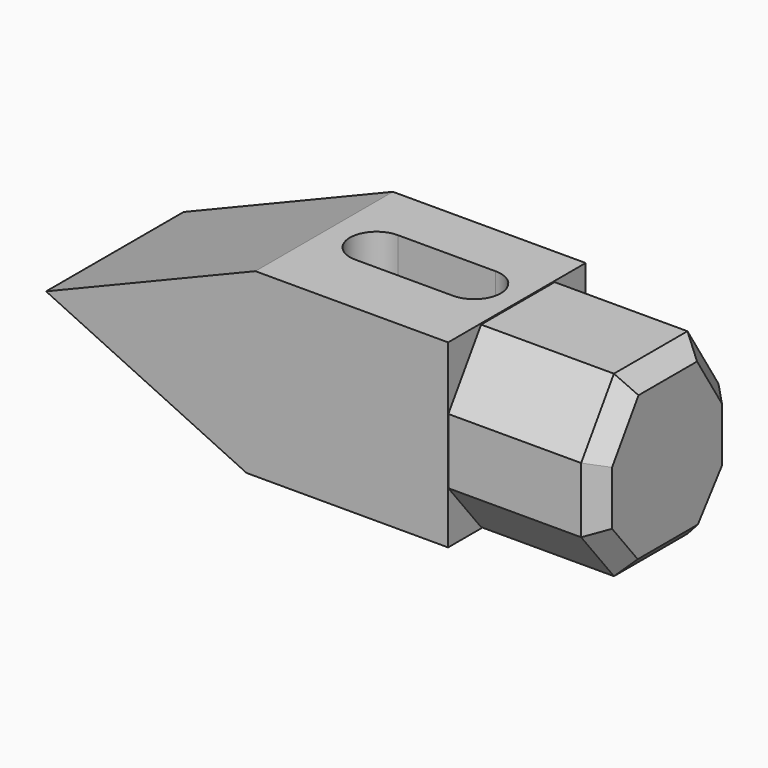
from build123d import *

# Parameters (mm, degrees)
F1_DEPTH = 50.8
F3_DEPTH = 86.868
F5_DEPTH = 97.028
F6_SIZE  = 5.08


with BuildPart() as f1:
    # F0 (on Front) → F1 (new body)
    with BuildSketch(Plane.XZ):
        Polygon((-14.398527, 25.359184), (-76.246753, 0), (-17.016442, -27.980816), (42.541102, -27.980816), (42.541102, 25.359184), align=None)
    extrude(amount=F1_DEPTH)

    # F2 (on Right) → F3 (join)
    with BuildSketch(Plane.YZ):
        Polygon((-11.453375, 25.031945), (-38.614232, 25.031945), (-50.722085, 6.706545), (-50.722085, -12.600573), (-38.614232, -27.653579), (-11.453375, -27.653579), (0, -12.600573), (0, 6.706545), align=None)
    extrude(amount=F3_DEPTH)

    # F4 (on face) → F5 (cut)
    with BuildSketch(Plane.XY.offset(25.359184)):
        with BuildLine():
            Line((28.871851, -16.200203), (0, -16.200203))
            ThreePointArc((0, -16.200203), (-7.853743, -24.053946), (0, -31.907689))
            Line((0, -31.907689), (28.871851, -31.907689))
            ThreePointArc((28.871851, -31.907689), (36.725594, -24.053946), (28.871851, -16.200203))
        make_face()
    extrude(amount=-F5_DEPTH, mode=Mode.SUBTRACT)

    # F6
    f6_edges = [f1.edges().sort_by_distance(p)[0] for p in [
        (86.868, -25.033804, 25.031945),
        (86.868, -5.726688, 15.869245),
        (86.868, 0, -2.947014),
        (86.868, -5.726688, -20.127076),
        (86.868, -25.033804, -27.653579),
        (86.868, -44.668159, 15.869245),
        (86.868, -50.722085, -2.947014),
        (86.868, -44.668159, -20.127076),
    ]]
    chamfer(f6_edges, length=F6_SIZE)


solid = f1.part
